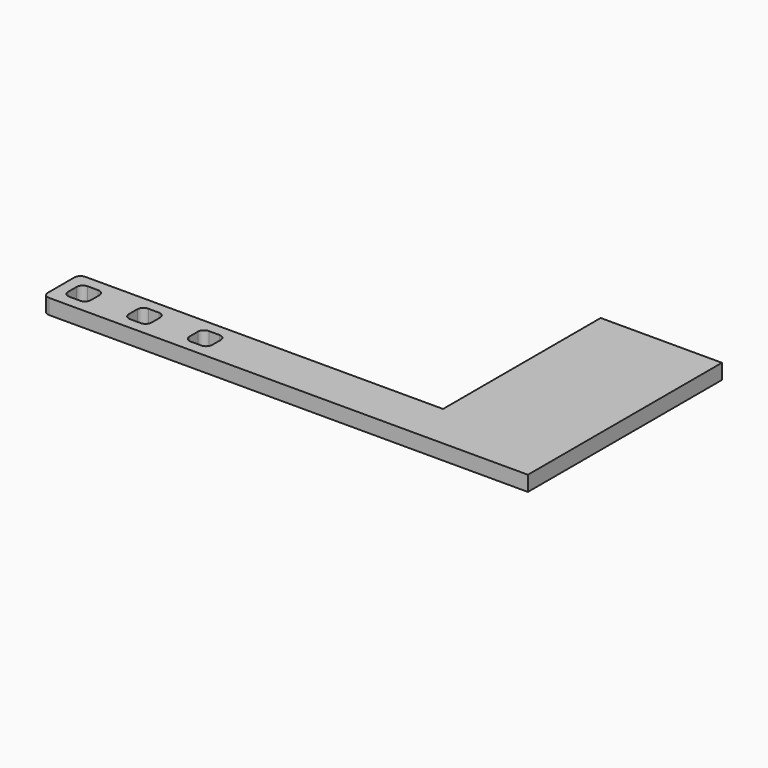
from build123d import *

# Parameters (mm, degrees)
F0_W     = 25.4
F0_H     = 41.275
F0_H_2   = 9.525
F0_W_2   = 76.2
F0_W_3   = 4.7625
F0_H_3   = 4.7625
F1_DEPTH = 3.175
F2_R     = 1.27


with BuildPart() as f1:
    # F0 (on Top) → F1 (new body)
    with BuildSketch(Plane.XY):
        with Locations((86.51875, 27.78125)):
            Rectangle(F0_W, F0_H)
        with Locations((86.51875, 2.38125)):
            Rectangle(F0_W, F0_H_2)
        with Locations((35.71875, 2.38125)):
            Rectangle(F0_W_2, F0_H_2)
        with Locations((2.38125, 2.38125)):
            Rectangle(F0_W_3, F0_H_3, mode=Mode.SUBTRACT)
        with Locations((15.08125, 2.38125)):
            Rectangle(F0_W_3, F0_H_3, mode=Mode.SUBTRACT)
        with Locations((27.78125, 2.38125)):
            Rectangle(F0_W_3, F0_H_3, mode=Mode.SUBTRACT)
    extrude(amount=F1_DEPTH)

    # F2
    f2_edges = [f1.edges().sort_by_distance(p)[0] for p in [
        (-2.38125, -2.38125, 1.5875),
        (0, 4.7625, 1.5875),
        (12.7, 4.7625, 1.5875),
        (25.4, 4.7625, 1.5875),
        (-2.38125, 7.14375, 1.5875),
        (0, 0, 1.5875),
        (12.7, 0, 1.5875),
        (25.4, 0, 1.5875),
        (4.7625, 0, 1.5875),
        (17.4625, 0, 1.5875),
        (30.1625, 0, 1.5875),
        (4.7625, 4.7625, 1.5875),
        (17.4625, 4.7625, 1.5875),
        (30.1625, 4.7625, 1.5875),
    ]]
    fillet(f2_edges, radius=F2_R)


solid = f1.part
